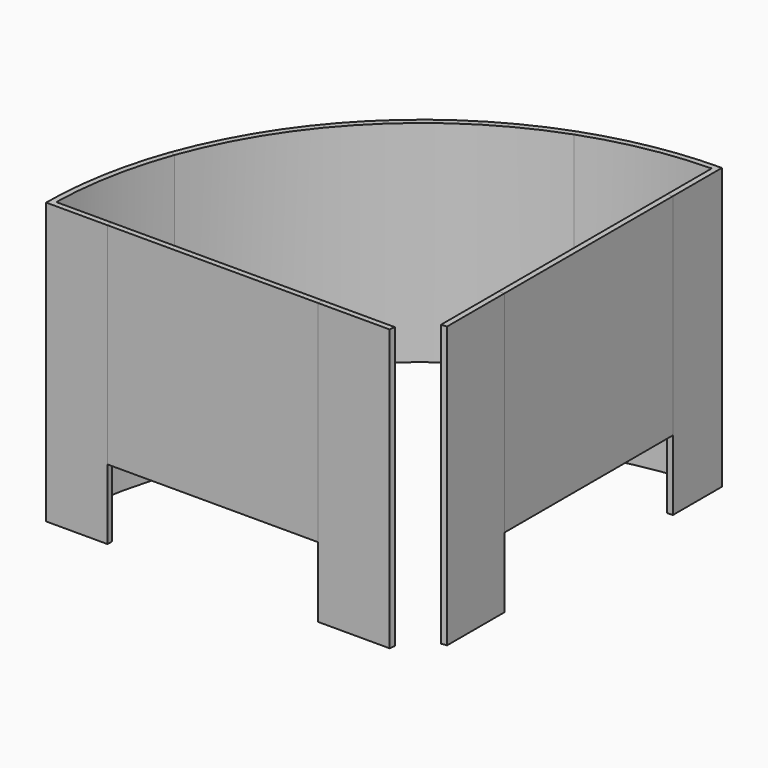
from build123d import *

# Parameters (mm, degrees)
F1_DEPTH = 80
F2_DEPTH = 60


with BuildPart() as f1:
    # F0 (on Top) → F1 (new body)
    with BuildSketch(Plane.XY):
        with BuildLine():
            Line((-2.1, 89.975497), (-0.5, 90.01284))
            Line((-0.5, 90.01284), (-0.5, 107.498837))
            ThreePointArc((-0.5, 107.498837), (-18.913331, 105.823135), (-36.767165, 101.016957))
            Line((-36.767165, 101.016957), (-36.215717, 99.514983))
            ThreePointArc((-36.215717, 99.514983), (-19.420332, 104.104086), (-2.1, 105.879176))
            Line((-2.1, 105.879176), (-2.1, 89.975497))
        make_face()
        with BuildLine():
            ThreePointArc((-2.1, 9.367497), (-1.304623, 9.510939), (-0.5, 9.58697))
            Line((-0.5, 9.58697), (-0.5, 30.038685))
            Line((-0.5, 30.038685), (-2.1, 29.92641))
            Line((-2.1, 29.92641), (-2.1, 9.367497))
        make_face()
        with BuildLine():
            Line((-29.995833, 0.5), (-9.58697, 0.5))
            ThreePointArc((-9.58697, 0.5), (-9.510939, 1.304623), (-9.367497, 2.1))
            Line((-9.367497, 2.1), (-29.92641, 2.1))
            Line((-29.92641, 2.1), (-29.995833, 0.5))
        make_face()
        with BuildLine():
            Line((-107.498837, 0.5), (-89.998611, 0.5))
            Line((-89.998611, 0.5), (-89.975371, 2.1))
            Line((-89.975371, 2.1), (-105.879176, 2.1))
            ThreePointArc((-105.879176, 2.1), (-104.103675, 19.422537), (-99.513449, 36.219933))
            Line((-99.513449, 36.219933), (-101.016957, 36.767165))
            ThreePointArc((-101.016957, 36.767165), (-105.823135, 18.913331), (-107.498837, 0.5))
        make_face()
    extrude(amount=-F1_DEPTH)


with BuildPart() as f2:
    # F0 (on Top) → F2 (new body)
    with BuildSketch(Plane.XY):
        Polygon((-89.998611, 0.5), (-29.995833, 0.5), (-29.92641, 2.1), (-89.975371, 2.1), align=None)
        Polygon((-2.1, 29.92641), (-0.5, 30.038685), (-0.5, 90.01284), (-2.1, 89.975497), align=None)
        with BuildLine():
            Line((-36.215717, 99.514983), (-36.767165, 101.016957))
            ThreePointArc((-36.767165, 101.016957), (-76.013979, 76.013979), (-101.016957, 36.767165))
            Line((-101.016957, 36.767165), (-99.513449, 36.219933))
            ThreePointArc((-99.513449, 36.219933), (-74.881022, 74.884194), (-36.215717, 99.514983))
        make_face()
    extrude(amount=-F2_DEPTH)


solid = Compound([f1.part, f2.part])
